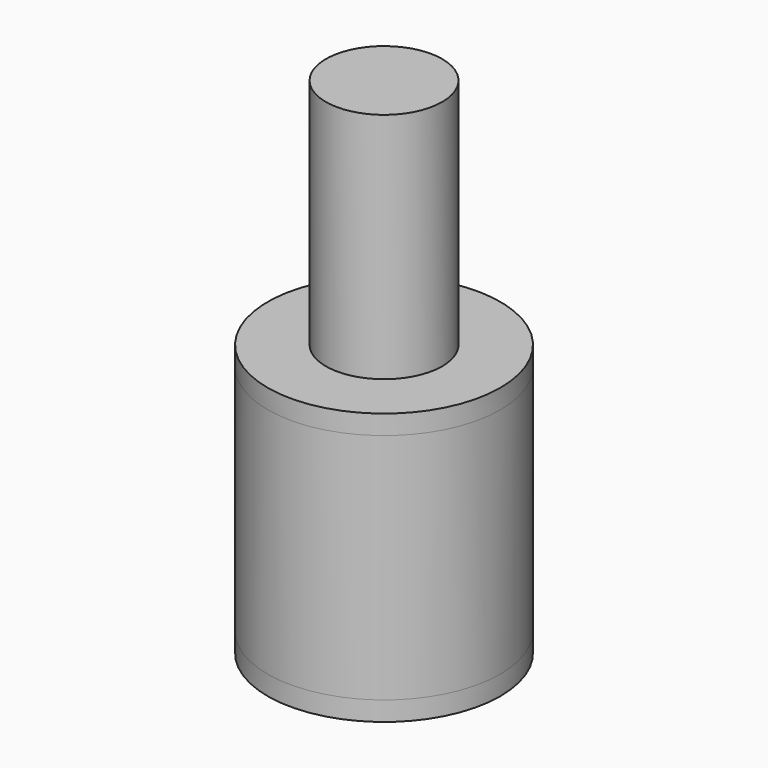
from build123d import *

# Parameters (mm, degrees)
F4_R      = 3
F5_DEPTH  = 3
F6_DEPTH  = 0.5
F7_DEPTH  = 0.5
F8_R      = 1.5
F9_DEPTH  = 6
F10_R     = 1.5
F11_DEPTH = 3


with BuildPart() as f5:
    # F4 (on Top) → F5 (new body, symmetric)
    with BuildSketch(Plane.XY):
        Circle(F4_R)
    extrude(amount=F5_DEPTH, both=True)


with BuildPart() as f6:
    # F6 (new): a face of the model
    f6_faces = [f5.part.faces().sort_by_distance(p)[0] for p in [
        (0, 0, 3),
    ]]
    extrude(f6_faces, amount=F6_DEPTH)

    # F8 (on face) → F9 (join)
    with BuildSketch(Plane.XY.offset(3.5)):
        Circle(F8_R)
    extrude(amount=F9_DEPTH)


with BuildPart() as f7:
    # F7 (new): a face of the model
    f7_faces = [f5.part.faces().sort_by_distance(p)[0] for p in [
        (0, 0, -3),
    ]]
    extrude(f7_faces, amount=F7_DEPTH)


with BuildPart() as f11:
    # F10 (on face) → F11 (new body)
    with BuildSketch(Plane(origin=(0, 0, -3.5), x_dir=(1, 0, 0), z_dir=(0, 0, -1))):
        Circle(F10_R)
    extrude(amount=-F11_DEPTH)


with BuildPart() as f7_1:
    add(f7.part)

    # F12: cut F11
    add(f11.part, mode=Mode.SUBTRACT)


with BuildPart() as f5_1:
    add(f5.part)

    # F12: cut F11
    add(f11.part, mode=Mode.SUBTRACT)


solid = Compound([f6.part, f7_1.part, f5_1.part])
